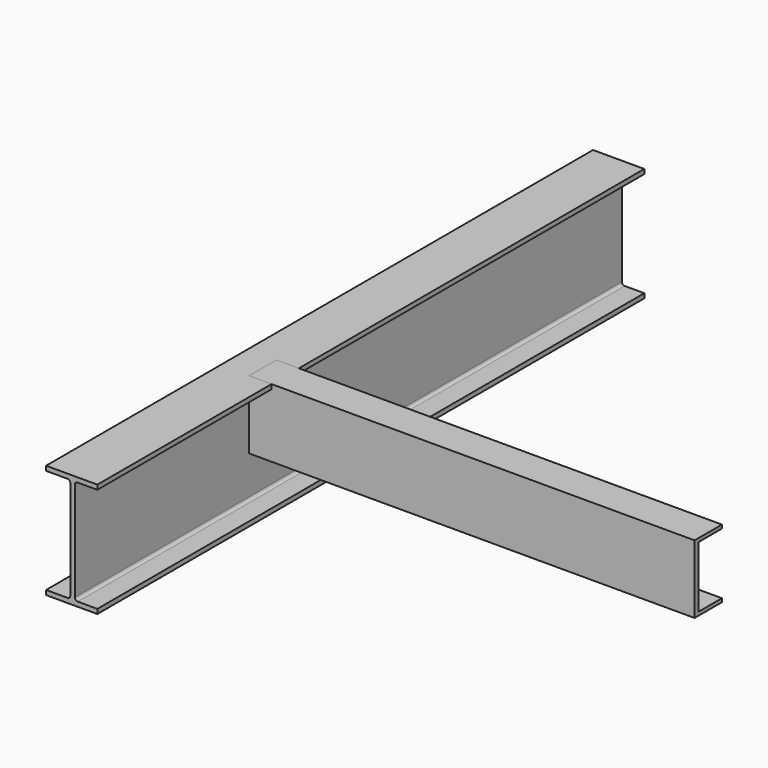
from build123d import *

# Parameters (mm, degrees)
F1_DEPTH = 1200
F3_DEPTH = 782


with BuildPart() as f1:
    # F0 (on Front) → F1 (new body)
    with BuildSketch(Plane.XZ):
        with BuildLine():
            Line((45, 97.614457), (-45, 97.614457))
            Line((-45, 97.614457), (-45, 89.614457))
            Line((-45, 89.614457), (-7.5, 89.614457))
            ThreePointArc((-7.5, 89.614457), (-3.964466, 88.149991), (-2.5, 84.614457))
            Line((-2.5, 84.614457), (-2.5, -89.385543))
            ThreePointArc((-2.5, -89.385543), (-3.964466, -92.921076), (-7.5, -94.385543))
            Line((-7.5, -94.385543), (-45, -94.385543))
            Line((-45, -94.385543), (-45, -102.385543))
            Line((-45, -102.385543), (45, -102.385543))
            Line((45, -102.385543), (45, -94.385543))
            Line((45, -94.385543), (10.5, -94.385543))
            ThreePointArc((10.5, -94.385543), (6.964466, -92.921076), (5.5, -89.385543))
            Line((5.5, -89.385543), (5.5, 84.614457))
            ThreePointArc((5.5, 84.614457), (6.964466, 88.149991), (10.5, 89.614457))
            Line((10.5, 89.614457), (45, 89.614457))
            Line((45, 89.614457), (45, 97.614457))
        make_face()
    extrude(amount=F1_DEPTH)


with BuildPart() as f3:
    # F2 (on face) → F3 (new body)
    with BuildSketch(Plane.YZ.offset(5.5)):
        Polygon((-757.796409, 97.614457), (-817.796409, 97.614457), (-817.796409, -22.385543), (-757.796409, -22.385543), (-757.796409, -16.192777), (-809.161782, -16.192777), (-809.161782, 91.354571), (-757.796409, 91.354571), align=None)
    extrude(amount=F3_DEPTH)


solid = Compound([f1.part, f3.part])
